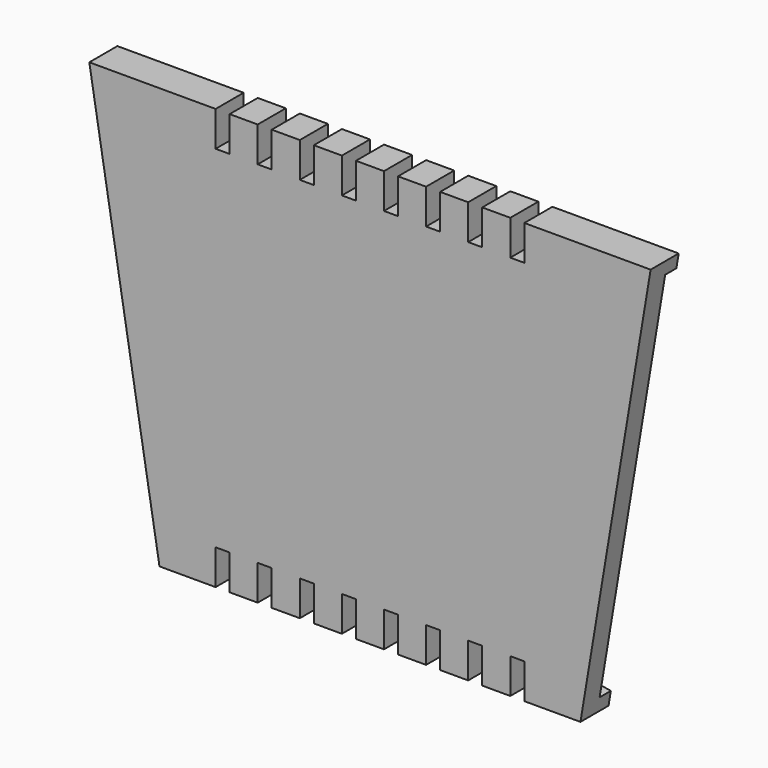
from build123d import *

# Parameters (mm, degrees)
F1_DEPTH = 25
F2_W     = 10
F2_H     = 284.1381265149
F3_DEPTH = 10


with BuildPart() as f1:
    # F0 (on Front) → F1 (new body)
    with BuildSketch(Plane.XZ):
        Polygon((-175, 0), (175, 0), (200, 150), (110, 150), (110, 125), (100, 125), (100, 150), (80, 150), (80, 125), (70, 125), (70, 150), (50, 150), (50, 125), (40, 125), (40, 150), (20, 150), (20, 125), (10, 125), (10, 150), (-10, 150), (-10, 125), (-20, 125), (-20, 150), (-40, 150), (-40, 125), (-50, 125), (-50, 150), (-70, 150), (-70, 125), (-80, 125), (-80, 150), (-100, 150), (-100, 125), (-110, 125), (-110, 150), (-200, 150), align=None)
        Polygon((110, -150), (150, -150), (175, 0), (-175, 0), (-150, -150), (-110, -150), (-110, -125), (-100, -125), (-100, -150), (-80, -150), (-80, -125), (-70, -125), (-70, -150), (-50, -150), (-50, -125), (-40, -125), (-40, -150), (-20, -150), (-20, -125), (-10, -125), (-10, -150), (10, -150), (10, -125), (20, -125), (20, -150), (40, -150), (40, -125), (50, -125), (50, -150), (70, -150), (70, -125), (80, -125), (80, -150), (100, -150), (100, -125), (110, -125), align=None)
    extrude(amount=F1_DEPTH)

    # F2 (on face) → F3 (cut)
    with BuildSketch(Plane(origin=(170.2702702703, 0, -28.3783783784), x_dir=(0, 1, 0), z_dir=(0.9863939238, 0, -0.1643989873))):
        with Locations((-5, 28.7698227784)):
            Rectangle(F2_W, F2_H)
    extrude(amount=-F3_DEPTH, mode=Mode.SUBTRACT)


solid = f1.part
